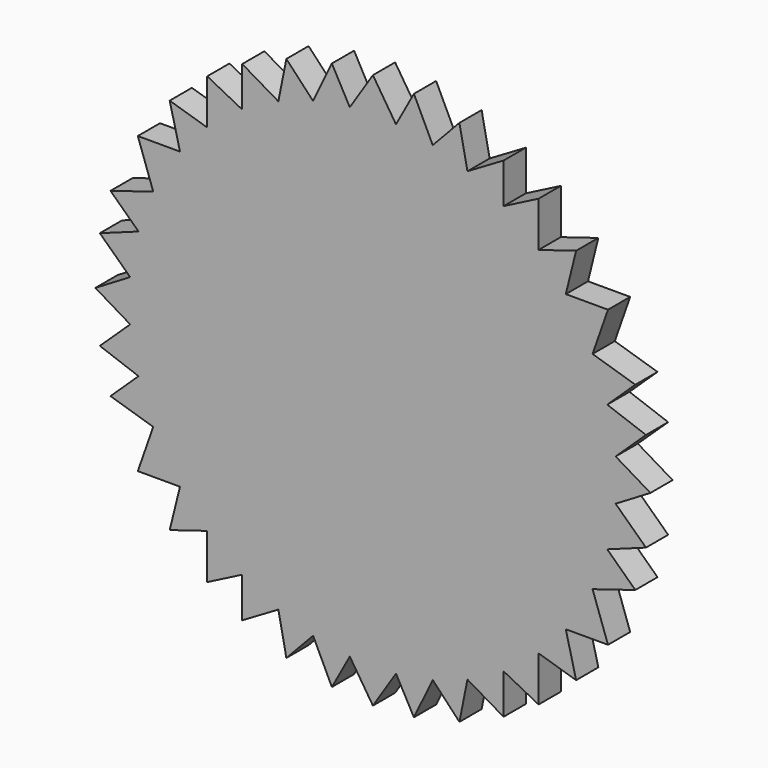
from build123d import *

# Parameters (mm, degrees)
F1_DEPTH = 2.54


with BuildPart() as f1:
    # F0 (on Front) → F1 (new body)
    with BuildSketch(Plane.XZ):
        Polygon((2.113677, 22.124263), (0, 25.4), (-2.113677, 22.124263), (-3.754936, 25.120917), (-5.474462, 21.540216), (-7.919199, 24.133924), (-8.653282, 20.471232), (-11.956969, 22.409616), (-11.956969, 18.734501), (-15.162867, 20.377621), (-15.162867, 16.249249), (-18.59776, 17.299807), (-17.654823, 13.50029), (-21.515161, 13.50029), (-20.103852, 9.475534), (-24.015887, 8.270258), (-21.447383, 5.827554), (-24.991025, 4.539679), (-22.21337, 1.904508), (-22.148459, 1.842926), (-25.4, 0), (-22.148459, -1.842926), (-22.21337, -1.904508), (-24.991025, -4.539679), (-21.447383, -5.827554), (-24.015887, -8.270258), (-20.103852, -9.475534), (-21.515161, -13.50029), (-17.654823, -13.50029), (-18.59776, -17.299807), (-15.162867, -16.249249), (-15.162867, -20.377621), (-11.956969, -18.734501), (-11.956969, -22.409616), (-8.653282, -20.471232), (-7.919199, -24.133924), (-5.474462, -21.540216), (-3.754936, -25.120917), (-2.113677, -22.124263), (0, -25.4), (2.113677, -22.124263), (3.754936, -25.120917), (5.474462, -21.540216), (7.919199, -24.133924), (8.653282, -20.471232), (11.956969, -22.409616), (11.956969, -18.734501), (15.162867, -20.377621), (15.162867, -16.249249), (18.59776, -17.299807), (17.654823, -13.50029), (21.515161, -13.50029), (20.103852, -9.475534), (24.015887, -8.270258), (21.447383, -5.827554), (24.991025, -4.539679), (22.21337, -1.904508), (22.148459, -1.842926), (25.4, 0), (22.148459, 1.842926), (22.21337, 1.904508), (24.991025, 4.539679), (21.447383, 5.827554), (24.015887, 8.270258), (20.103852, 9.475534), (21.515161, 13.50029), (17.654823, 13.50029), (18.59776, 17.299807), (15.162867, 16.249249), (15.162867, 20.377621), (11.956969, 18.734501), (11.956969, 22.409616), (8.653282, 20.471232), (7.919199, 24.133924), (5.474462, 21.540216), (3.754936, 25.120917), align=None)
        Polygon((25.4, 0), (22.21337, 1.904508), (22.148459, 1.842926), align=None)
        Polygon((-22.148459, 1.842926), (-22.21337, 1.904508), (-25.4, 0), align=None)
        Polygon((22.21337, -1.904508), (25.4, 0), (22.148459, -1.842926), align=None)
        Polygon((-22.148459, -1.842926), (-25.4, 0), (-22.21337, -1.904508), align=None)
        Polygon((2.113677, 22.124263), (0, 25.4), (-2.113677, 22.124263), (-3.754936, 25.120917), (-5.474462, 21.540216), (-7.919199, 24.133924), (-8.653282, 20.471232), (-11.956969, 22.409616), (-11.956969, 18.734501), (-15.162867, 20.377621), (-15.162867, 16.249249), (-18.59776, 17.299807), (-17.654823, 13.50029), (-21.515161, 13.50029), (-20.103852, 9.475534), (-24.015887, 8.270258), (-21.447383, 5.827554), (-24.991025, 4.539679), (-22.21337, 1.904508), (-22.148459, 1.842926), (-25.4, 0), (-22.148459, -1.842926), (-22.21337, -1.904508), (-24.991025, -4.539679), (-21.447383, -5.827554), (-24.015887, -8.270258), (-20.103852, -9.475534), (-21.515161, -13.50029), (-17.654823, -13.50029), (-18.59776, -17.299807), (-15.162867, -16.249249), (-15.162867, -20.377621), (-11.956969, -18.734501), (-11.956969, -22.409616), (-8.653282, -20.471232), (-7.919199, -24.133924), (-5.474462, -21.540216), (-3.754936, -25.120917), (-2.113677, -22.124263), (0, -25.4), (2.113677, -22.124263), (3.754936, -25.120917), (5.474462, -21.540216), (7.919199, -24.133924), (8.653282, -20.471232), (11.956969, -22.409616), (11.956969, -18.734501), (15.162867, -20.377621), (15.162867, -16.249249), (18.59776, -17.299807), (17.654823, -13.50029), (21.515161, -13.50029), (20.103852, -9.475534), (24.015887, -8.270258), (21.447383, -5.827554), (24.991025, -4.539679), (22.21337, -1.904508), (22.148459, -1.842926), (25.4, 0), (22.148459, 1.842926), (22.21337, 1.904508), (24.991025, 4.539679), (21.447383, 5.827554), (24.015887, 8.270258), (20.103852, 9.475534), (21.515161, 13.50029), (17.654823, 13.50029), (18.59776, 17.299807), (15.162867, 16.249249), (15.162867, 20.377621), (11.956969, 18.734501), (11.956969, 22.409616), (8.653282, 20.471232), (7.919199, 24.133924), (5.474462, 21.540216), (3.754936, 25.120917), align=None)
    extrude(amount=F1_DEPTH)


solid = f1.part
